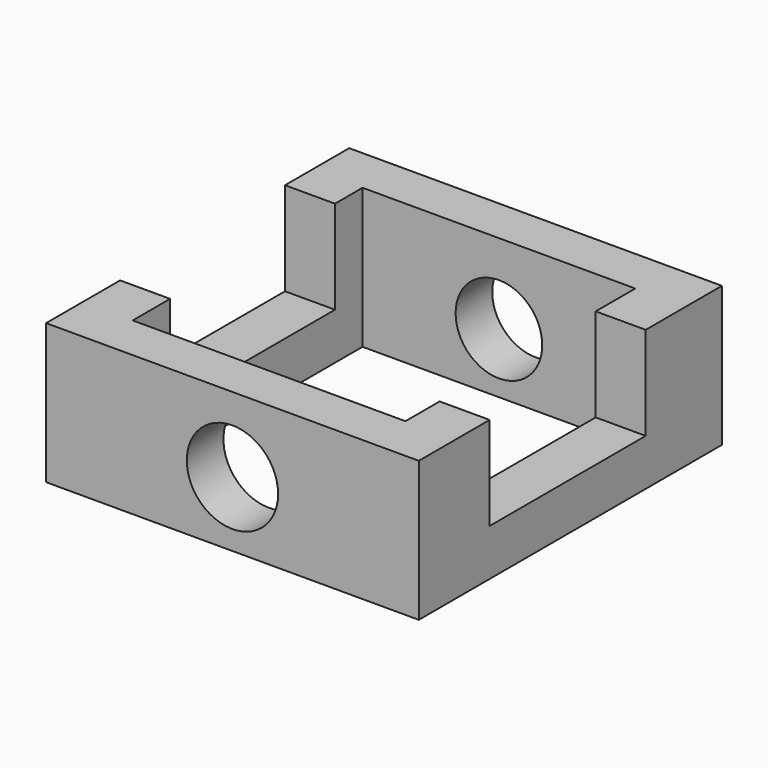
from build123d import *

# Parameters (mm, degrees)
F0_W     = 101.406738162
F0_H     = 103.0912548304
F0_W_2   = 74.2010474205
F0_H_2   = 78.1673192978
F1_DEPTH = 38.1
F2_W     = 13.6028453708
F2_H     = 56.0740102082
F3_DEPTH = 25.4
F2_H_2   = 53.0724562705
F4_DEPTH = 25.4
F5_R     = 12.4226697252
F6_DEPTH = 25.4
F7_R     = 11.7834333481
F8_DEPTH = 25.4


with BuildPart() as f1:
    # F0 (on Top) → F1 (new body)
    with BuildSketch(Plane.XY):
        Rectangle(F0_W, F0_H)
        Rectangle(F0_W_2, F0_H_2, mode=Mode.SUBTRACT)
    extrude(amount=F1_DEPTH)

    # F2 (on face) → F3 (cut)
    with BuildSketch(Plane.XY.offset(38.1)):
        with Locations((-43.9019463956, 1.6720136628)):
            Rectangle(F2_W, F2_H)
    extrude(amount=-F3_DEPTH, mode=Mode.SUBTRACT)

    # F2 (on face) → F4 (cut)
    with BuildSketch(Plane.XY.offset(38.1)):
        with Locations((43.9019463956, -0.9162034839)):
            Rectangle(F2_W, F2_H_2)
    extrude(amount=-F4_DEPTH, mode=Mode.SUBTRACT)

    # F5 (on face) → F6 (cut)
    with BuildSketch(Plane.XZ.offset(51.5456274152)):
        with Locations((0, 17.6801010966)):
            Circle(F5_R)
    extrude(amount=-F6_DEPTH, mode=Mode.SUBTRACT)

    # F7 (on face) → F8 (cut)
    with BuildSketch(Plane(origin=(0, 51.5456274152, 0), x_dir=(-1, 0, 0), z_dir=(0, 1, 0))):
        with Locations((0, 16.2762645632)):
            Circle(F7_R)
    extrude(amount=-F8_DEPTH, mode=Mode.SUBTRACT)


solid = f1.part
